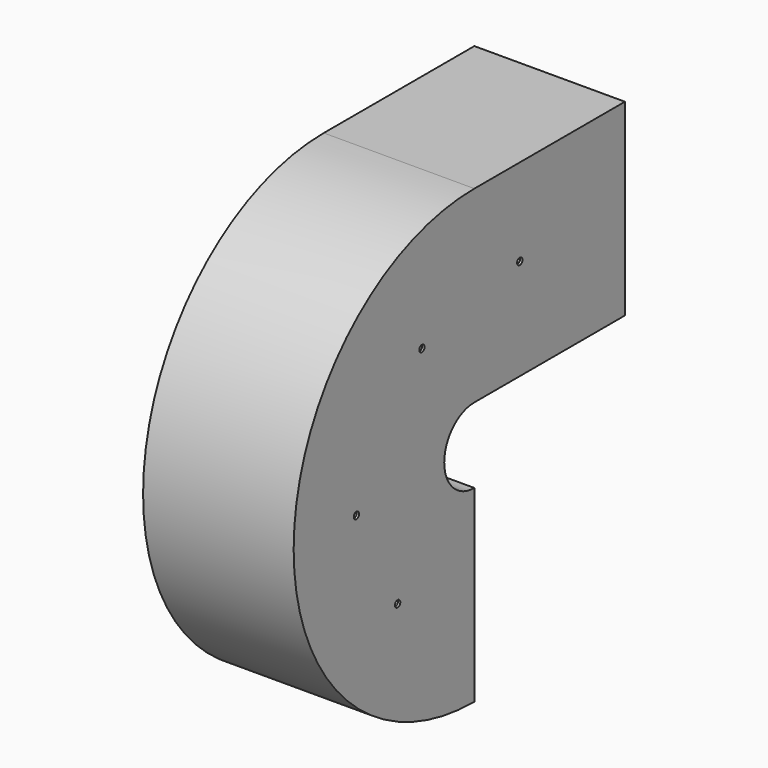
from build123d import *

# Parameters (mm, degrees)
F0_W           = 101.6
F0_H           = 127
F0_W_2         = 98.3996
F0_H_2         = 123.7996
F4_D           = 4.4958
F4_CSINK_D     = 9.1186
F4_CSINK_ANGLE = 82


with BuildPart() as f2:
    # F2: sweep along a path in F1
    with BuildLine(Plane.YZ) as f2_path:
        Line((0, 0), (-127, 0))
        ThreePointArc((-127, 0), (-152.4, -25.4), (-127, -50.8))
    # F0 (on Front) → F2 (sweep)
    with BuildSketch(Plane.XZ):
        with Locations((50.8, 63.5)):
            Rectangle(F0_W, F0_H)
        with Locations((50.8, 63.5)):
            Rectangle(F0_W_2, F0_H_2, mode=Mode.SUBTRACT)
    sweep(path=f2_path.line)

    # F4 (through all)
    with Locations(Plane(origin=(0, 0, 0), x_dir=(0, -1, 0), z_dir=(-1, 0, 0))):
        with Locations((191.694766283, -93.3181196451), (226.4662384987, -26.6998708248), (171.2218225002, 49.9923676252), (88.680177927, 68.1905299425)):
            CounterSinkHole(F4_D / 2, F4_CSINK_D / 2, counter_sink_angle=F4_CSINK_ANGLE)


solid = f2.part
